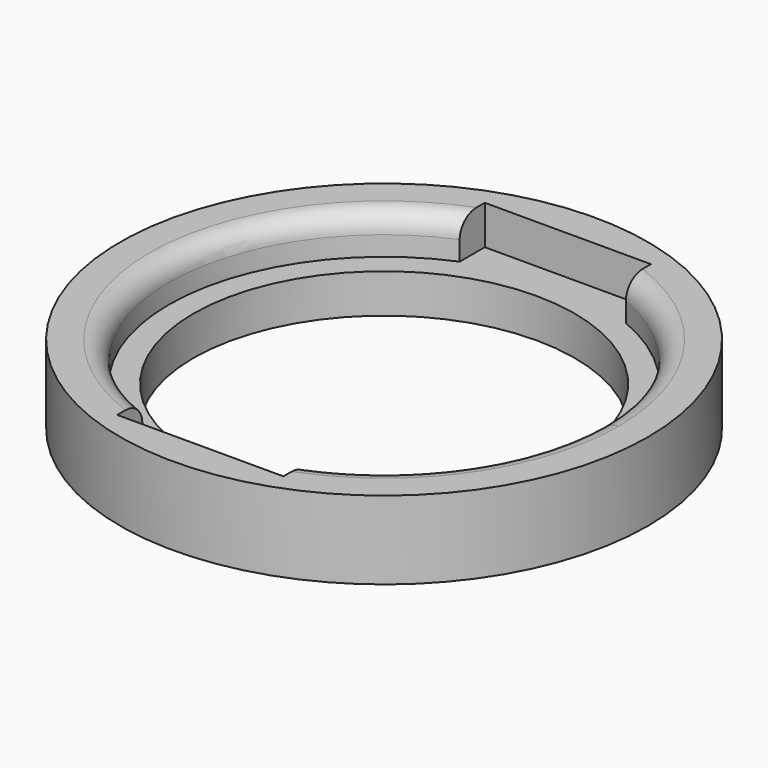
from build123d import *

# Parameters (mm, degrees)
F0_R     = 13.5
F1_DEPTH = 4
F2_R     = 13.5
F2_R_2   = 9.75
F3_DEPTH = 2
F4_R     = 1


with BuildPart() as f1:
    # F0 (on Top) → F1 (new body)
    with BuildSketch(Plane.XY):
        Circle(F0_R)
        with BuildLine():
            ThreePointArc((4.25, 10.1458119439), (9.158329542, 6.0930288035), (11, 0))
            ThreePointArc((11, 0), (9.158329542, -6.0930288035), (4.25, -10.1458119439))
            Line((4.25, -10.1458119439), (4.25, -11.75))
            Line((4.25, -11.75), (-4.25, -11.75))
            Line((-4.25, -11.75), (-4.25, -10.1458119439))
            ThreePointArc((-4.25, -10.1458119439), (-11, 0), (-4.25, 10.1458119439))
            Line((-4.25, 10.1458119439), (-4.25, 11.75))
            Line((-4.25, 11.75), (4.25, 11.75))
            Line((4.25, 11.75), (4.25, 10.1458119439))
        make_face(mode=Mode.SUBTRACT)
    extrude(amount=F1_DEPTH)

    # F2 (on Top) → F3 (join)
    with BuildSketch(Plane.XY):
        Circle(F2_R)
        Circle(F2_R_2, mode=Mode.SUBTRACT)
    extrude(amount=F3_DEPTH)

    # F4
    f4_edges = [f1.edges().sort_by_distance(p)[0] for p in [
        (11, 0, 4),
        (-11, 0, 4),
    ]]
    fillet(f4_edges, radius=F4_R)


solid = f1.part
